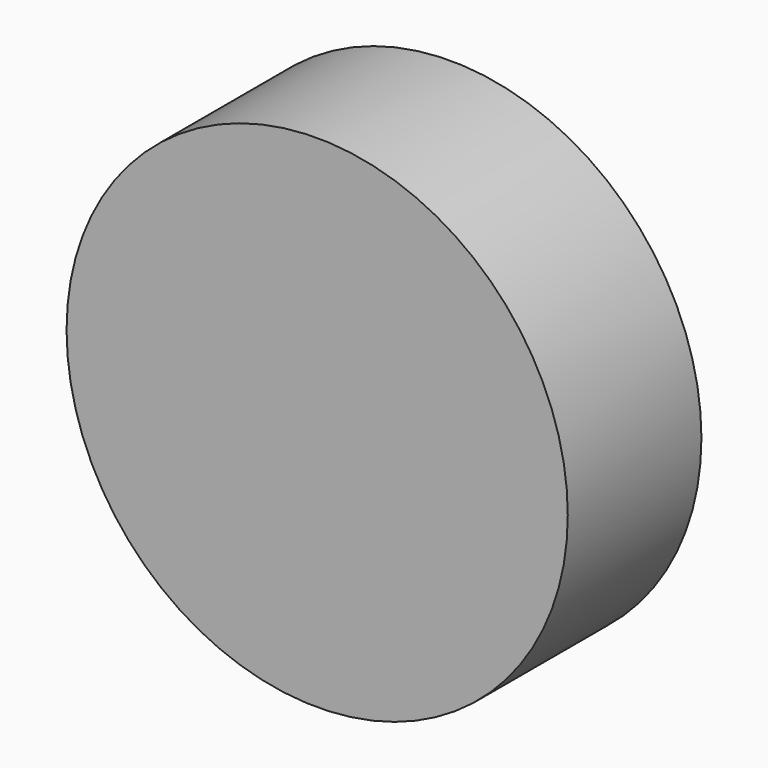
from build123d import *

# Parameters (mm, degrees)
F1_DEPTH = 25


with BuildPart() as f1:
    # F0 (on Front) → F1 (new body)
    with BuildSketch(Plane.XZ):
        with BuildLine():
            ThreePointArc((-37.5, 0), (0, -37.5), (37.5, 0))
            Line((37.5, 0), (-37.5, 0))
        make_face()
        with BuildLine():
            Line((-37.5, 0), (37.5, 0))
            ThreePointArc((37.5, 0), (0, 37.5), (-37.5, 0))
        make_face()
    extrude(amount=F1_DEPTH)


solid = f1.part
